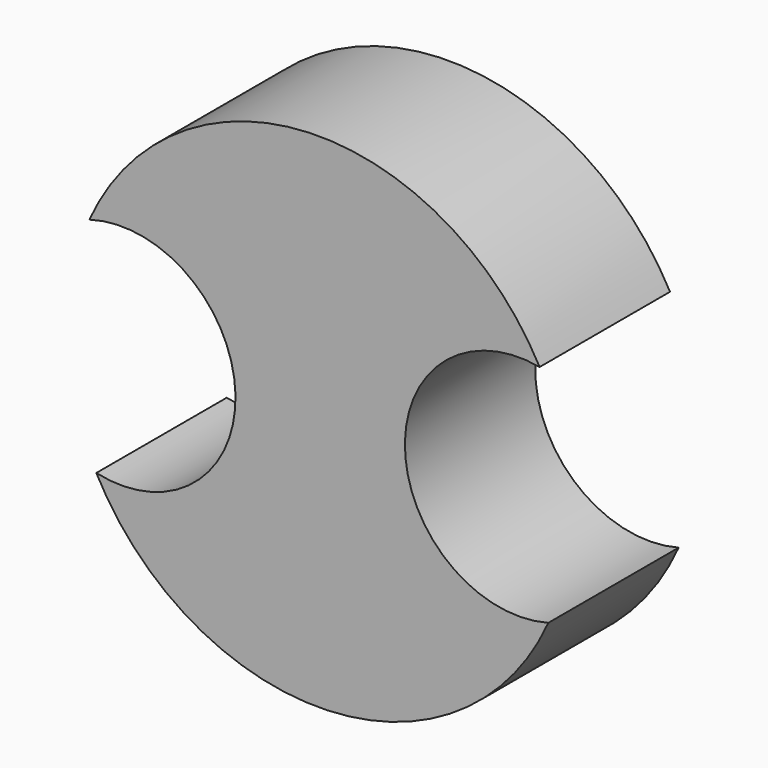
from build123d import *

# Parameters (mm, degrees)
F0_R     = 19.5974274926
F1_DEPTH = 12.7
F3_D     = 17.78


with BuildPart() as f1:
    # F0 (on Front) → F1 (new body)
    with BuildSketch(Plane.XZ):
        with Locations((-22.8128973395, -3.5290902015)):
            Circle(F0_R)
    extrude(amount=F1_DEPTH)

    # F3 (through all)
    with Locations(Plane(origin=(0, 0, 0), x_dir=(1, 0, 0), z_dir=(0, 1, 0))):
        with Locations((-38.1818786263, 4.013152793), (-7.2018867359, 2.9240124859)):
            Hole(F3_D / 2)


solid = f1.part
